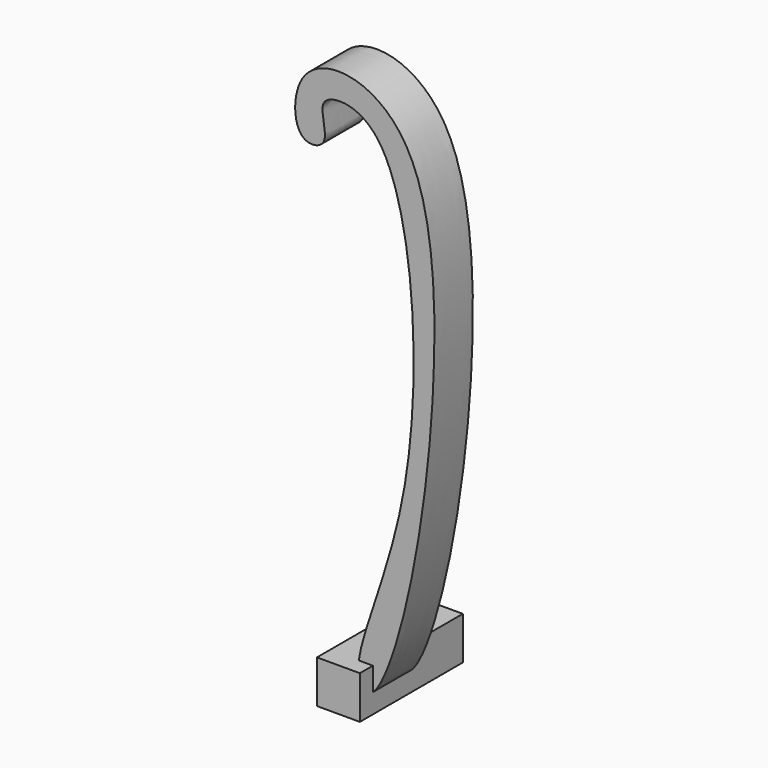
from build123d import *

# Parameters (mm, degrees)
F0_W     = 5
F0_H     = 5
F1_DEPTH = 7.5
F3_DEPTH = 5.6


with BuildPart() as f1:
    # F0 (on Front) → F1 (new body, symmetric)
    with BuildSketch(Plane.XZ):
        Rectangle(F0_W, F0_H)
    extrude(amount=F1_DEPTH, both=True)


with BuildPart() as f3:
    # F2 (on Front) → F3 (new body)
    with BuildSketch(Plane.XZ):
        with BuildLine():
            add(Edge.make_bspline(
                [(1.9079558551, -0.5353394081), (2.9532101499, -0.4354213649), (6.6893423544, 7.8655165982), (10.6946005896, 34.4023116195), (8.8515640813, 57.6587151842), (-0.4633447771, 63.2190939744), (-6.8793522769, 60.9506303994), (-6.7906013784, 53.1356610025), (-2.1370539145, 53.8950128322), (-4.1118581998, 58.311283921), (-1.4259552265, 59.6462485493), (6.7758156733, 57.1301325401), (9.2271996256, 21.1385870538), (-0.6882977841, 2.2499540908), (1.3668124779, -0.5870684348), (1.9079558551, -0.5353394081)],
                knots=[0, 0, 0, 0, 0.0686820983, 0.2043691566, 0.3239717024, 0.3979261889, 0.4567400325, 0.517328328, 0.5563092137, 0.6042029803, 0.6398679546, 0.7006721819, 0.849256906, 0.9644422771, 1, 1, 1, 1], degree=3))
        make_face()
    extrude(amount=F3_DEPTH)


solid = Compound([f1.part, f3.part])
